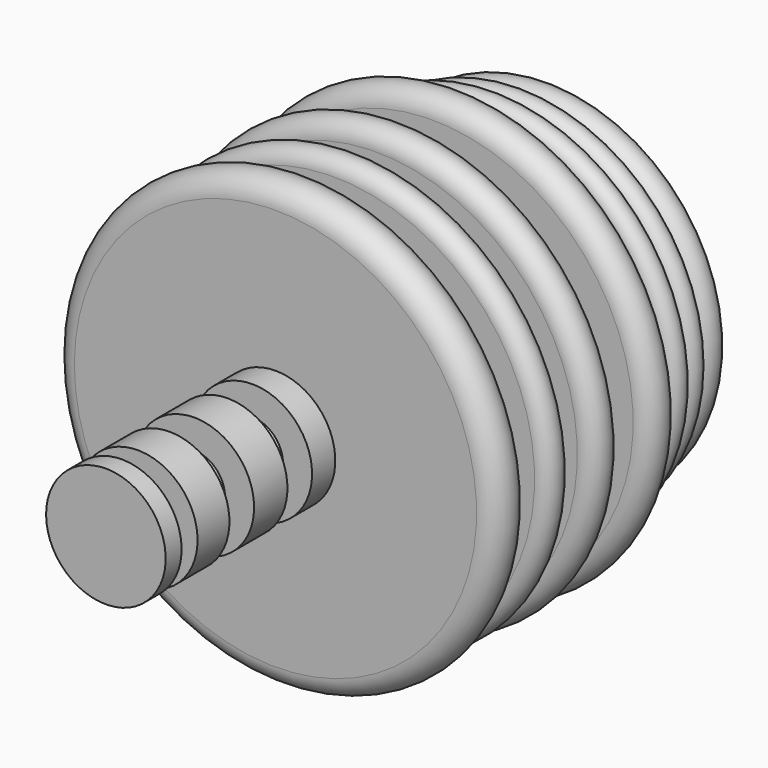
from build123d import *


with BuildPart() as f1:
    # F0 (on Top) → F1 (revolve)
    with BuildSketch(Plane.XY):
        with BuildLine():
            Line((0, 41.384481), (0, 46.321578))
            Line((0, 46.321578), (-9.583776, 46.321578))
            ThreePointArc((-9.583776, 46.321578), (-12.052325, 43.85303), (-9.583776, 41.384481))
            Line((-9.583776, 41.384481), (0, 41.384481))
        make_face()
        Polygon((0, 37.028223), (0, 41.384481), (-9.583776, 41.384481), (-17.715465, 41.384481), (-17.715465, 37.028223), (-9.583776, 37.028223), (-9.583776, 34.704883), (-24.395064, 34.704883), (-24.395064, 30.929457), (-9.583776, 30.929457), (-9.583776, 28.606117), (-26.427986, 28.606117), (-26.427986, 26.573194), (-9.583776, 26.573194), (-9.583776, 24.249855), (-29.622575, 24.249855), (-29.622575, 20.474428), (-9.583776, 20.474428), (-9.583776, 16.989419), (-32.236334, 16.989419), (-32.236334, 11.181071), (-9.583776, 11.181071), (-9.583776, 5.372723), (-32.236334, 5.372723), (-32.236334, 0), (-9.583776, 0), (-9.583776, -3.920635), (-32.236334, -3.920635), (-32.236334, -8.567314), (-9.583776, -8.567314), (-9.583776, -13.50441), (-32.236334, -13.50441), (-32.236334, -20.184012), (-9.583776, -20.184012), (-9.583776, -24.83069), (-4.928552, -24.83069), (-4.928552, -29.767787), (-9.583776, -29.767787), (-9.583776, -36.447387), (-4.928552, -36.447387), (-4.928552, -41.384481), (-9.583776, -41.384481), (-9.583776, -47.773665), (-4.791888, -47.773665), (-4.791888, -50.968256), (-9.583776, -50.968256), (-9.583776, -54.162849), (0, -54.162849), (0, -20.184012), (0, -13.50441), (0, -8.567314), (0, -3.920635), (0, 0), (0, 5.372723), (0, 11.181071), (0, 16.989419), (0, 20.474428), (0, 24.249855), (0, 26.573194), (0, 28.606117), (0, 30.929457), (0, 34.704883), align=None)
        with BuildLine():
            Line((-17.715465, 37.028223), (-17.715465, 41.384481))
            ThreePointArc((-17.715465, 41.384481), (-21.0597, 39.206352), (-17.715465, 37.028223))
        make_face()
        with BuildLine():
            Line((-24.395064, 30.929457), (-24.395064, 34.704883))
            ThreePointArc((-24.395064, 34.704883), (-28.508327, 32.81717), (-24.395064, 30.929457))
        make_face()
        with BuildLine():
            Line((-26.427986, 26.573194), (-26.427986, 28.606117))
            ThreePointArc((-26.427986, 28.606117), (-29.871335, 27.589655), (-26.427986, 26.573194))
        make_face()
        with BuildLine():
            Line((-29.622575, 20.474428), (-29.622575, 24.249855))
            ThreePointArc((-29.622575, 24.249855), (-31.510289, 22.362142), (-29.622575, 20.474428))
        make_face()
        with BuildLine():
            Line((-32.236334, 11.181071), (-32.236334, 16.989419))
            ThreePointArc((-32.236334, 16.989419), (-35.140508, 14.085245), (-32.236334, 11.181071))
        make_face()
        with BuildLine():
            Line((-32.236334, 0), (-32.236334, 5.372723))
            ThreePointArc((-32.236334, 5.372723), (-35.140508, 2.686361), (-32.236334, 0))
        make_face()
        with BuildLine():
            Line((-32.236334, -8.567314), (-32.236334, -3.920635))
            ThreePointArc((-32.236334, -3.920635), (-34.559673, -6.243974), (-32.236334, -8.567314))
        make_face()
        with BuildLine():
            Line((-32.236334, -20.184012), (-32.236334, -13.50441))
            ThreePointArc((-32.236334, -13.50441), (-35.576135, -16.844211), (-32.236334, -20.184012))
        make_face()
    revolve(axis=Axis((0, 25.84715, 0), (0, -1, 0)))


solid = f1.part
